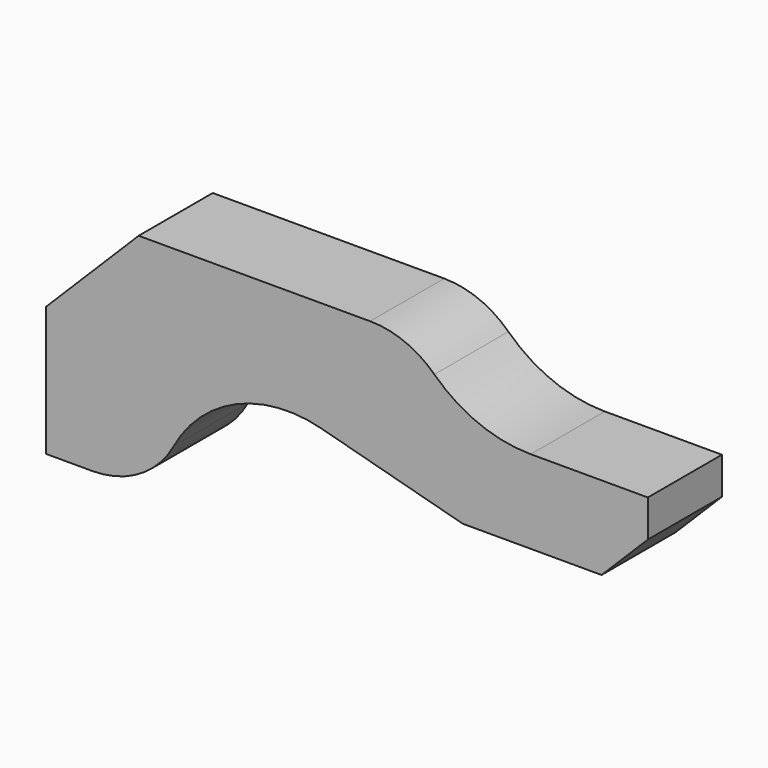
from build123d import *

# Parameters (mm, degrees)
F1_DEPTH = 10


with BuildPart() as f1:
    # F0 (on Front) → F1 (new body)
    with BuildSketch(Plane.XZ):
        with BuildLine():
            Line((0, 14), (0, 0))
            Line((0, 0), (5, 0))
            ThreePointArc((5, 0), (10.117275, 1.408522), (13.792991, 5.237301))
            ThreePointArc((13.792991, 5.237301), (20.570263, 11.429803), (29.726646, 12.092483))
            Line((29.726646, 12.092483), (45, 8))
            Line((45, 8), (60, 8))
            Line((60, 8), (65, 13))
            Line((65, 13), (65, 17))
            Line((65, 17), (52.349352, 17))
            ThreePointArc((52.349352, 17), (46.736865, 18.089572), (41.939741, 21.2))
            ThreePointArc((41.939741, 21.2), (38.741657, 23.273618), (35, 24))
            Line((35, 24), (10, 24))
            Line((10, 24), (0, 14))
        make_face()
    extrude(amount=F1_DEPTH)


solid = f1.part
